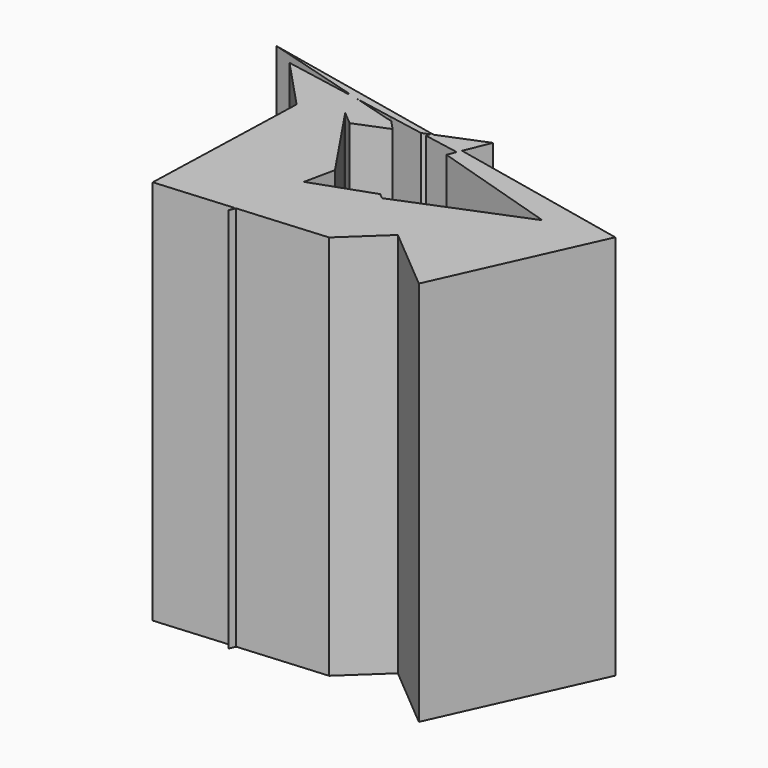
from build123d import *

# Parameters (mm, degrees)
F1_DEPTH = 92.964


with BuildPart() as f1:
    # F0 (on Top) → F1 (new body)
    with BuildSketch(Plane.XY):
        Polygon((-11.363891304, 28.6811531914), (-23.6685577262, 31.310043601), (-21.7514889919, 29.2647632039), (-21.4971445771, 29.1857769379), (-13.0953979351, 27.631865636), (-11.445167611, 28.3007349582), align=None)
        Polygon((-21.7514889919, 29.2647632039), (-23.6685577262, 31.310043601), (-35.158415116, 33.764850165), (-34.8719179356, 33.3392921913), align=None)
        Polygon((-21.7152671967, 29.2261189308), (-21.7514889919, 29.2647632039), (-34.8719179356, 33.3392921913), (-33.8031092464, 31.7517021871), (-31.0401167534, 30.9507590243), align=None)
        Polygon((-34.8719179356, 33.3392921913), (-35.158415116, 33.764850165), (-38.6320129037, 34.5069838887), align=None)
        Polygon((-10.8025132343, 28.5612148385), (-11.363891304, 28.6811531914), (-11.445167611, 28.3007349582), align=None)
        Polygon((-33.8031092464, 31.7517021871), (-34.8719179356, 33.3392921913), (-38.6320129037, 34.5069838887), (-56.4126817215, 38.3058215108), align=None)
        Polygon((-10.8025132343, 28.5612148385), (-11.445167611, 28.3007349582), (-11.6453689931, 27.3636813576), (-2.9640479419, 25.7580624939), (-2.536040841, 26.7950840673), align=None)
        Polygon((0, 32.9396761954), (-10.8025132343, 28.5612148385), (-2.536040841, 26.7950840673), align=None)
        Polygon((-18.2591771562, 25.5388890032), (-20.4559686533, 27.8825997451), (-31.0401167534, 30.9507590243), (-33.5801640761, 31.4205432739), (-29.339740332, 25.1218909351), (-26.0716256546, 22.3723570017), align=None)
        Polygon((-33.5801640761, 31.4205432739), (-31.0401167534, 30.9507590243), (-33.8031092464, 31.7517021871), align=None)
        Polygon((36.3568202391, 18.4856292647), (-2.536040841, 26.7950840673), (-2.9640479419, 25.7580624939), align=None)
        Polygon((-29.339740332, 25.1218909351), (-33.5801640761, 31.4205432739), (-37.7410697113, 32.190106862), align=None)
        Polygon((36.3568202391, 18.4856292647), (-2.9640479419, 25.7580624939), (-3.815611044, 23.6948039497), (26.957339273, 14.1383116556), (1.9335445611, 3.9956980087), (11.2069335345, -5.8978860567), (31.1385840178, 12.7843171358), align=None)
        Polygon((41.9932989192, 17.2813963145), (36.3568202391, 18.4856292647), (31.1385840178, 12.7843171358), (11.2069335345, -5.8978860567), (24.9195843935, -20.5276254565), align=None)
        Polygon((-27.1848988191, 21.921126494), (-29.339740332, 25.1218909351), (-37.7410697113, 32.190106862), (-50.2680484108, 34.5069838887), (-38.6320129037, 22.0927418237), (-39.6262408451, -9.3448986648), (-17.8473095251, -1.6648430482), (-16.271543508, 5.7106166242), align=None)
        Polygon((9.4679610689, -7.5278482606), (24.9195843935, -20.5276254565), (11.2069335345, -5.8978860567), align=None)
        Polygon((9.4679610689, -7.5278482606), (11.2069335345, -5.8978860567), (1.9335445611, 3.9956980087), (-2.2253809367, 2.3100074492), align=None)
        Polygon((0, -16.4022950937), (9.4679610689, -7.5278482606), (-2.2253809367, 2.3100074492), (-3.5101987058, 3.3909517865), (-13.6749758769, -0.1935240933), (-21.0544278002, -18.0732527887), align=None)
        Polygon((-21.0544278002, -18.0732527887), (-13.6749758769, -0.1935240933), (-17.8473095251, -1.6648430482), (-21.3581134797, -18.0973544137), align=None)
        Polygon((-21.3581134797, -18.0973544137), (-17.8473095251, -1.6648430482), (-39.6262408451, -9.3448986648), (-39.9497039616, -19.5728521794), align=None)
        Polygon((-21.6733533889, -19.5728521794), (-21.0544278002, -18.0732527887), (-21.3581134797, -18.0973544137), align=None)
    extrude(amount=F1_DEPTH)


solid = f1.part
